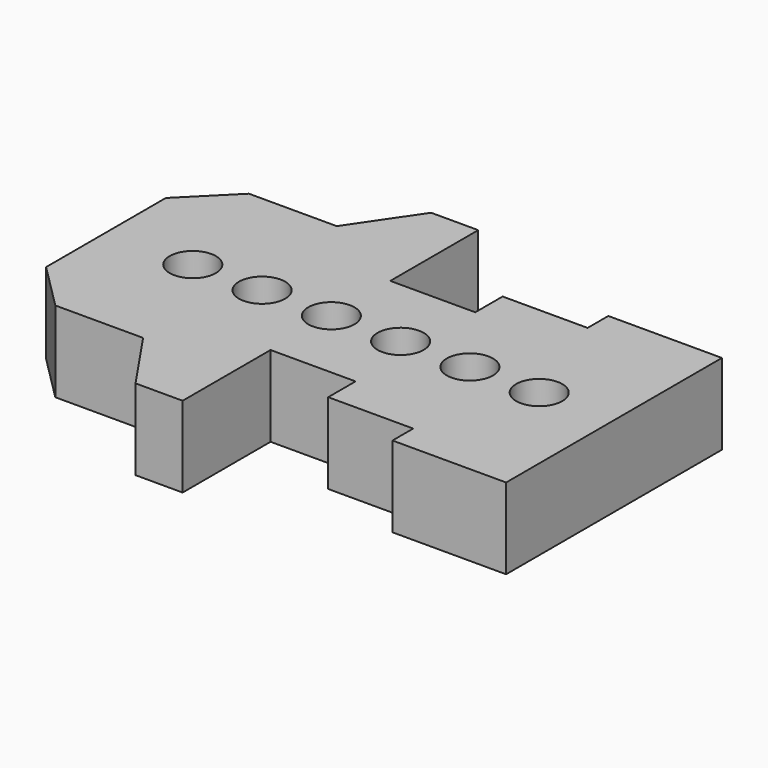
from build123d import *

# Parameters (mm, degrees)
F1_DEPTH = 22.225
F3_R     = 6.35
F4_DEPTH = 22.226


with BuildPart() as f1:
    # F0 (on Top) → F1 (new body)
    with BuildSketch(Plane.XY):
        Polygon((139.7, 0), (0, 0), (0, -20.574), (12.7, -33.274), (36.83, -33.274), (48.768, -50.8), (61.722, -50.8), (61.722, -20.574), (85.09, -20.574), (85.09, -29.972), (108.458, -29.972), (108.458, -37.084), (139.7, -37.084), align=None)
    extrude(amount=F1_DEPTH)

    # F2: F1 across face


with BuildPart() as f1_1:
    add(f1.part)
    add(f1.part.mirror(Plane(origin=(69.85, 0, 11.1125), x_dir=(-1, 0, 0), z_dir=(0, 1, 0))))

    # F3 (on Top) → F4 (cut, through all)
    with BuildSketch(Plane.XY):
        with Locations((23.876, 0)):
            Circle(F3_R)
        with Locations((42.926, 0)):
            Circle(F3_R)
        with Locations((61.976, 0)):
            Circle(F3_R)
        with Locations((81.026, 0)):
            Circle(F3_R)
        with Locations((100.076, 0)):
            Circle(F3_R)
        with Locations((119.126, 0)):
            Circle(F3_R)
    extrude(amount=F4_DEPTH, mode=Mode.SUBTRACT)


solid = f1_1.part
